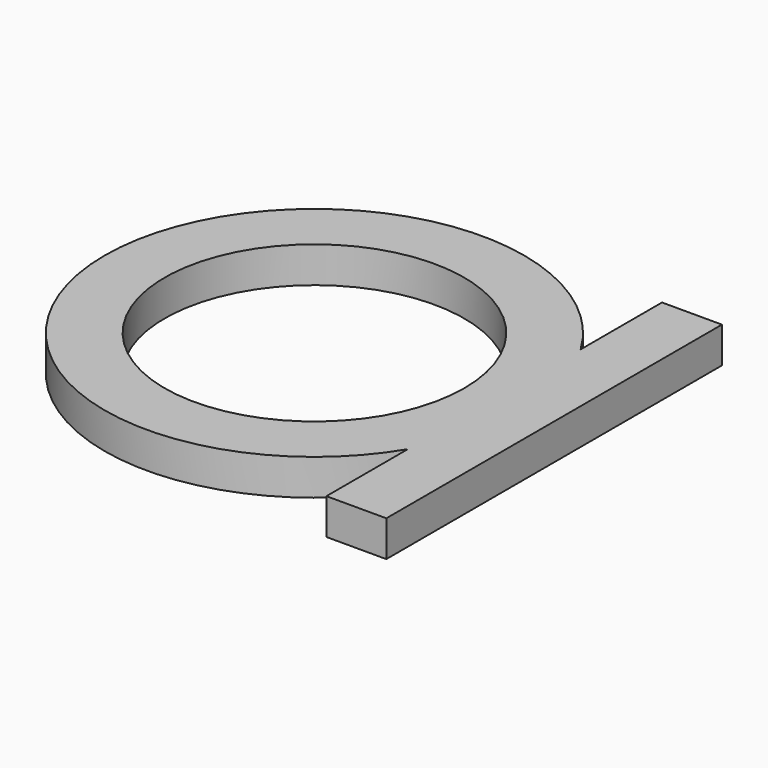
from build123d import *

# Parameters (mm, degrees)
F0_R     = 12.5
F1_DEPTH = 3


with BuildPart() as f1:
    # F0 (on Top) → F1 (new body)
    with BuildSketch(Plane.XY):
        with BuildLine():
            Line((15, -9.0138781887), (15, 9.0138781887))
            ThreePointArc((15, 9.0138781887), (-17.5, 0), (15, -9.0138781887))
        make_face()
        Circle(F0_R, mode=Mode.SUBTRACT)
        with BuildLine():
            ThreePointArc((15, -9.0138781887), (16.863421954, -4.6770717335), (17.5, 0))
            ThreePointArc((17.5, 0), (16.863421954, 4.6770717335), (15, 9.0138781887))
            Line((15, 9.0138781887), (15, -9.0138781887))
        make_face()
        with BuildLine():
            ThreePointArc((15, 9.0138781887), (16.863421954, 4.6770717335), (17.5, 0))
            ThreePointArc((17.5, 0), (16.863421954, -4.6770717335), (15, -9.0138781887))
            Line((15, -9.0138781887), (15, -17.5))
            Line((15, -17.5), (20, -17.5))
            Line((20, -17.5), (20, 17.5))
            Line((20, 17.5), (15, 17.5))
            Line((15, 17.5), (15, 9.0138781887))
        make_face()
    extrude(amount=F1_DEPTH)


solid = f1.part
